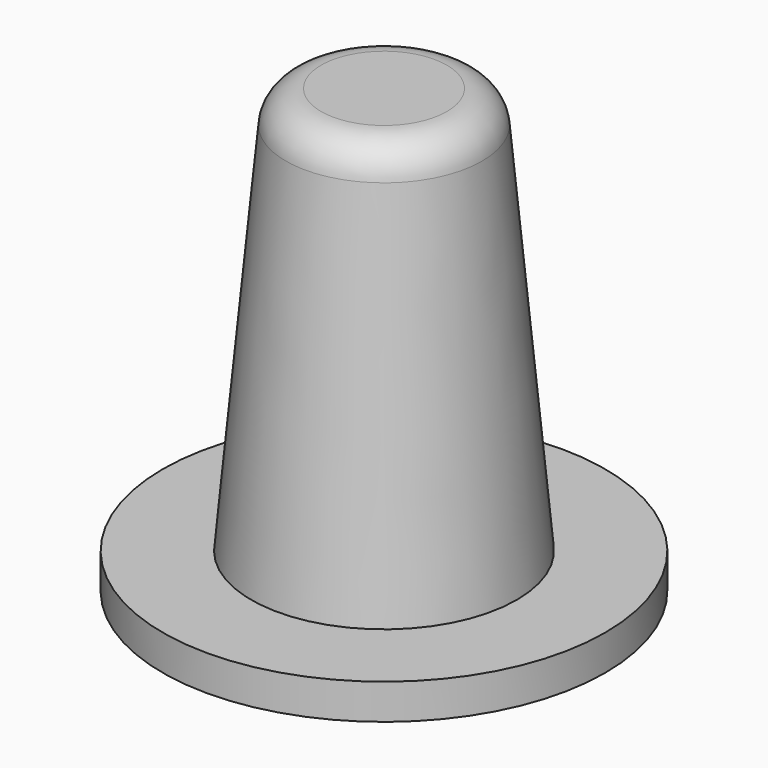
from build123d import *

# Parameters (mm, degrees)
F2_R = 0.8


with BuildPart() as f1:
    # F0 (on Front) → F1 (revolve)
    with BuildSketch(Plane.XZ):
        Polygon((2.2, 0), (5, 0), (5, 0.8), (3, 0.8), (2.15, 10), (0, 10), (0, 9.2), (1.35, 9.2), align=None)
    revolve(axis=Axis((0, 0, 4.745889), (0, 0, -1)))

    # F2
    f2_edges = [f1.edges().sort_by_distance(p)[0] for p in [
        (-2.15, 0, 10),
    ]]
    fillet(f2_edges, radius=F2_R)


solid = f1.part
